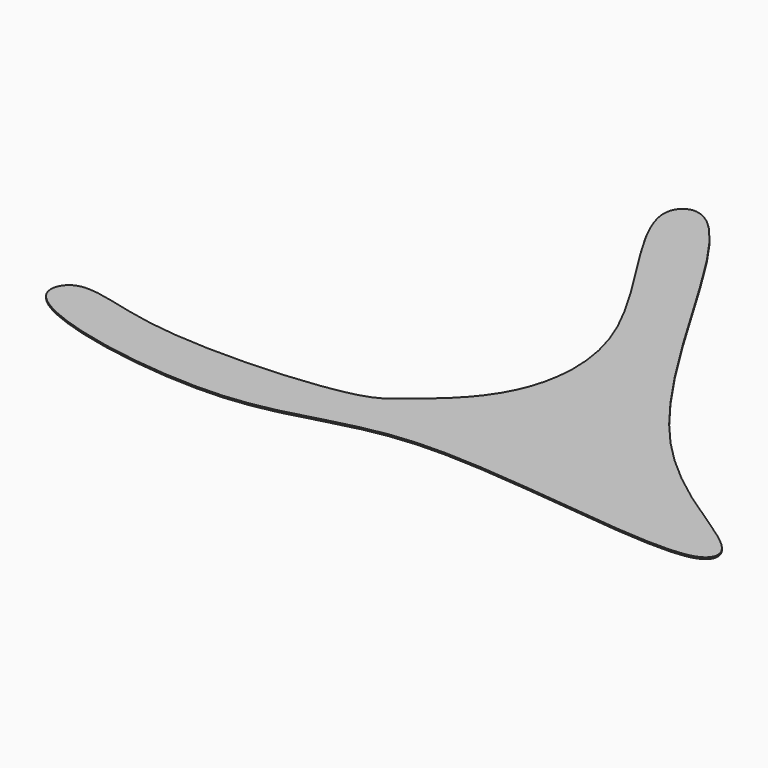
from build123d import *

# Parameters (mm, degrees)
F1_DEPTH = 1.5


with BuildPart() as f1:
    # F0 (on Top) → F1 (new body, symmetric)
    with BuildSketch(Plane.XY):
        with BuildLine():
            add(Edge.make_bspline(
                [(-815.5708312988, 149.9944329262), (-778.248830991, 96.0663061194), (-374.3687036767, 20.2064755055), (-159.2948925345, 178.8401973884), (415.9560711963, 55.5818306848), (456.3824109173, 160.2831655283), (98.9121786527, 290.3441866), (-191.6364033699, 989.7129694092), (-335.1832725619, 889.6996878066), (-54.0112951979, 571.07907609), (-91.5630661698, 318.1799924658), (-216.0021042089, 220.1549571161), (-270.4721615064, 172.2085249065), (-639.7556715121, 149.1289328168), (-804.3009600841, 228.1504635657), (-828.8266507902, 169.1483236223), (-815.5708312988, 149.9944329262)],
                knots=[0, 0, 0, 0, 0.092973713, 0.177604301, 0.2843860487, 0.3141453669, 0.4012549698, 0.5252146241, 0.5592574045, 0.6502687351, 0.7233623091, 0.7780533511, 0.8176689585, 0.9069873415, 0.9669781162, 1, 1, 1, 1], degree=3))
        make_face()
    extrude(amount=F1_DEPTH, both=True)


solid = f1.part
